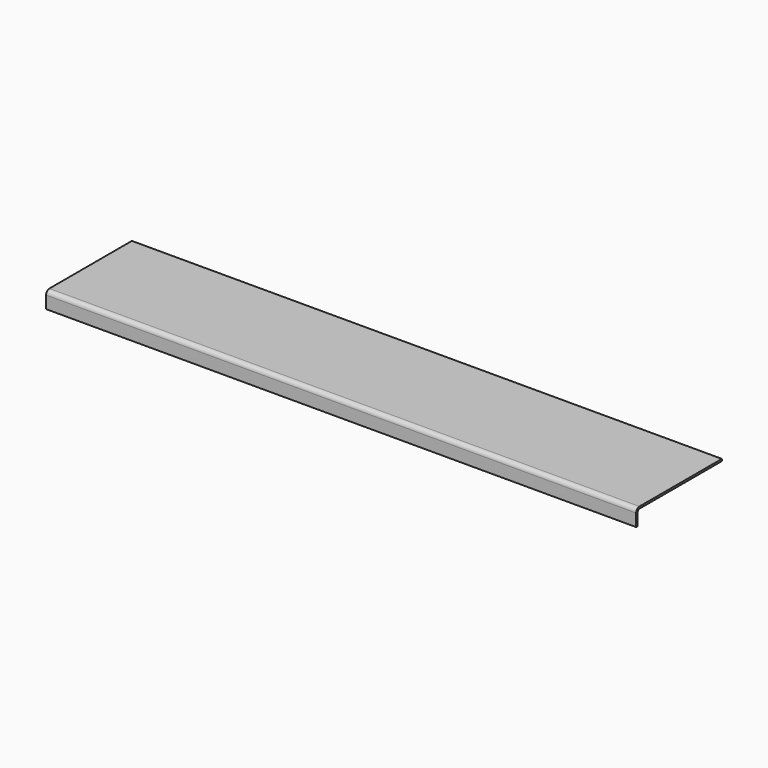
from build123d import *

# Parameters (mm, degrees)
F0_W     = 482.6
F0_H     = 82.55
F1_DEPTH = 12.7
F2_R     = 3.175
F3_T     = -1.524
F4_W     = 14.1732
F4_H     = 82.55
F5_DEPTH = 25.4


with BuildPart() as f1:
    # F0 (on Top) → F1 (new body)
    with BuildSketch(Plane.XY):
        Rectangle(F0_W, F0_H)
    extrude(amount=-F1_DEPTH)

    # F2
    f2_edges = [f1.edges().sort_by_distance(p)[0] for p in [
        (0, -41.275, 0),
    ]]
    fillet(f2_edges, radius=F2_R)

    # F3
    f3_openings = [f1.faces().sort_by_distance(p)[0] for p in [
        (0, 0, -12.7),
        (241.3, 0.08388, -6.361664),
        (0, 41.275, -6.35),
        (-241.3, 0.08388, -6.361664),
    ]]
    offset(amount=F3_T, openings=f3_openings)

    # F4 (on face) → F5 (cut)
    with BuildSketch(Plane.XY):
        with Locations((-234.2134, 0)):
            Rectangle(F4_W, F4_H)
        with Locations((234.2134, 0)):
            Rectangle(F4_W, F4_H)
    extrude(amount=-F5_DEPTH, mode=Mode.SUBTRACT)


solid = f1.part
